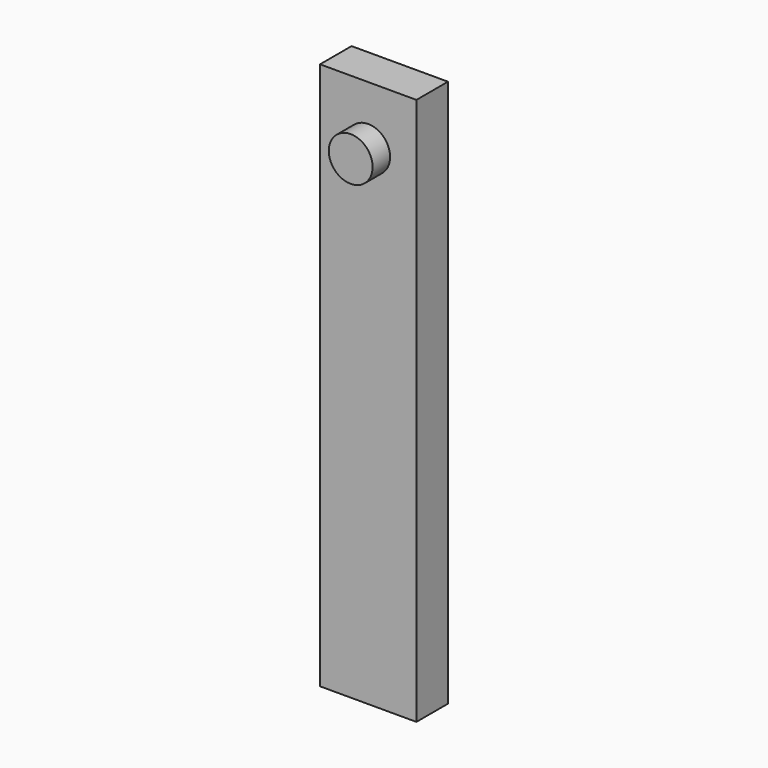
from build123d import *

# Parameters (mm, degrees)
F1_W      = 22
F1_H      = 9
F2_DEPTH  = 25
F2_FACE_W = 22
F2_FACE_H = 9
F3_DEPTH  = 100
F4_R      = 5
F5_DEPTH  = 5


with BuildPart() as f2:
    # F1 (on face) → F2 (new body)
    with BuildSketch(Plane.XY):
        Rectangle(F1_W, F1_H)
    extrude(amount=F2_DEPTH)

    # F2_face (on face) → F3 (join)
    with BuildSketch(Plane.XY.offset(25)):
        Rectangle(F2_FACE_W, F2_FACE_H)
    extrude(amount=F3_DEPTH)

    # F4 (on face) → F5 (join)
    with BuildSketch(Plane.XZ.offset(4.5)):
        with Locations((0, 111.583002)):
            Circle(F4_R)
    extrude(amount=F5_DEPTH)


solid = f2.part
